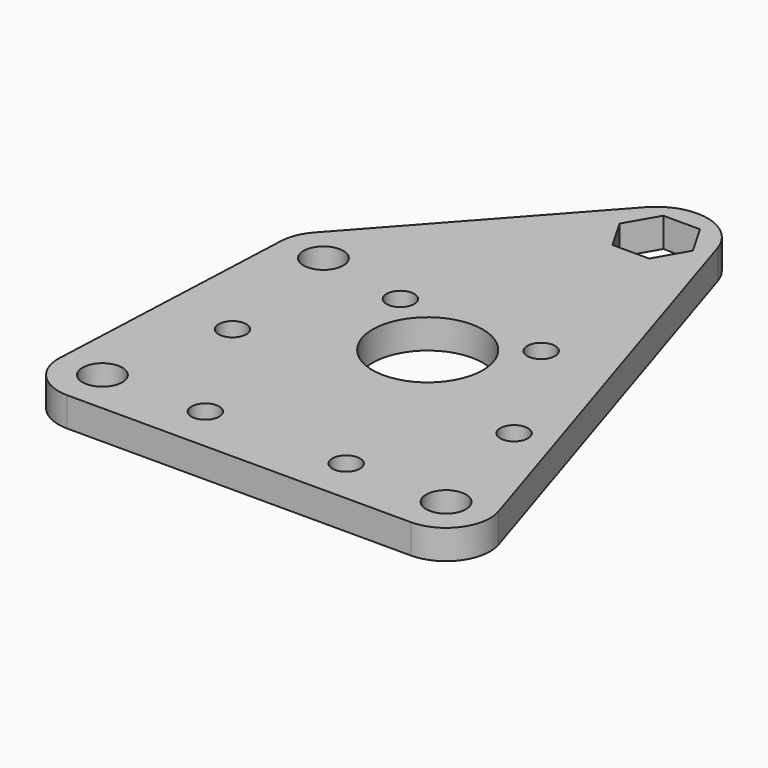
from build123d import *

# Parameters (mm, degrees)
F0_R     = 2.15265
F0_R_2   = 1.5
F0_R_3   = 5.969
F1_DEPTH = 3.175


with BuildPart() as f1:
    # F0 (on Top) → F1 (new body)
    with BuildSketch(Plane.XY):
        with BuildLine():
            ThreePointArc((18.600191, -18.161), (22.444669, -16.209442), (23.138398, -11.954172))
            Line((23.138398, -11.954172), (7.487077, 37.223663))
            ThreePointArc((7.487077, 37.223663), (3.361586, 40.970478), (-1.940047, 39.252633))
            Line((-1.940047, 39.252633), (-20.908597, 18.146535))
            ThreePointArc((-20.908597, 18.146535), (-21.775278, 16.764006), (-22.124412, 15.170071))
            Line((-22.124412, 15.170071), (-23.358191, -13.191519))
            ThreePointArc((-23.358191, -13.191519), (-22.040188, -16.692104), (-18.600191, -18.161))
            Line((-18.600191, -18.161), (18.600191, -18.161))
        make_face()
        with Locations((-18.600191, -13.3985)):
            Circle(F0_R, mode=Mode.SUBTRACT)
        with Locations((-7.62, -13.198227)):
            Circle(F0_R_2, mode=Mode.SUBTRACT)
        with Locations((-15.24, 0)):
            Circle(F0_R_2, mode=Mode.SUBTRACT)
        with Locations((7.62, -13.198227)):
            Circle(F0_R_2, mode=Mode.SUBTRACT)
        with Locations((18.600191, -13.3985)):
            Circle(F0_R, mode=Mode.SUBTRACT)
        with Locations((0, 7.366)):
            Circle(F0_R_3, mode=Mode.SUBTRACT)
        with Locations((15.24, 0)):
            Circle(F0_R_2, mode=Mode.SUBTRACT)
        with Locations((-17.366412, 14.963089)):
            Circle(F0_R, mode=Mode.SUBTRACT)
        with Locations((-7.62, 13.198227)):
            Circle(F0_R_2, mode=Mode.SUBTRACT)
        with Locations((7.62, 13.198227)):
            Circle(F0_R_2, mode=Mode.SUBTRACT)
        Polygon((6.161253, 35.538613), (4.176878, 32.101575), (0.208128, 32.101575), (-1.776247, 35.538613), (0.208128, 38.975652), (4.176878, 38.975652), align=None, mode=Mode.SUBTRACT)
    extrude(amount=F1_DEPTH)


solid = f1.part
